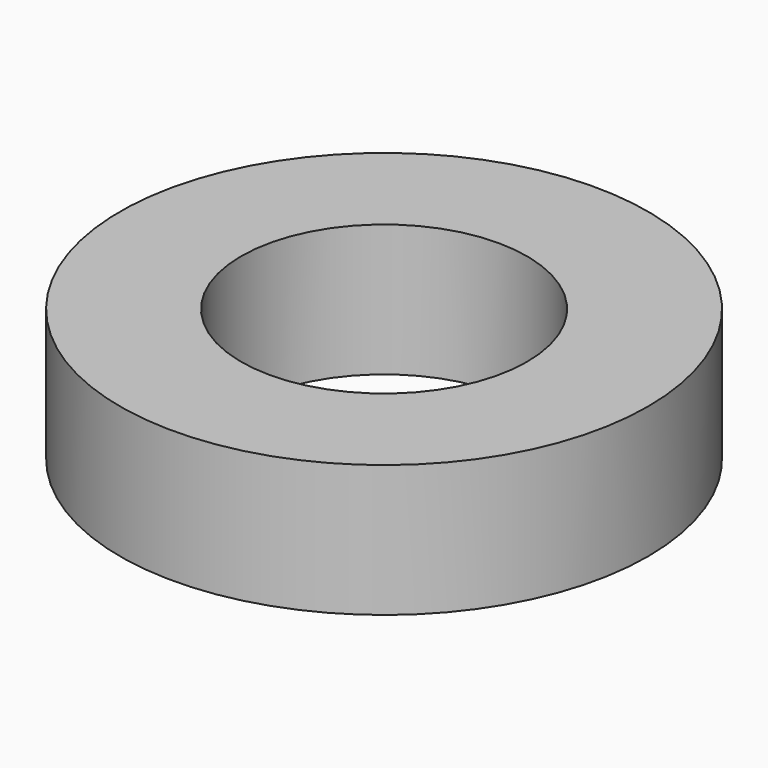
from build123d import *

# Parameters (mm, degrees)
SKETCH_R   = 6
SKETCH_R_2 = 3.25
PAD_DEPTH  = 3


with BuildPart() as part:
    # Sketch → Pad (new body)
    with BuildSketch(Plane.XY):
        Circle(SKETCH_R)
        Circle(SKETCH_R_2, mode=Mode.SUBTRACT)
    extrude(amount=PAD_DEPTH)


solid = part.part
